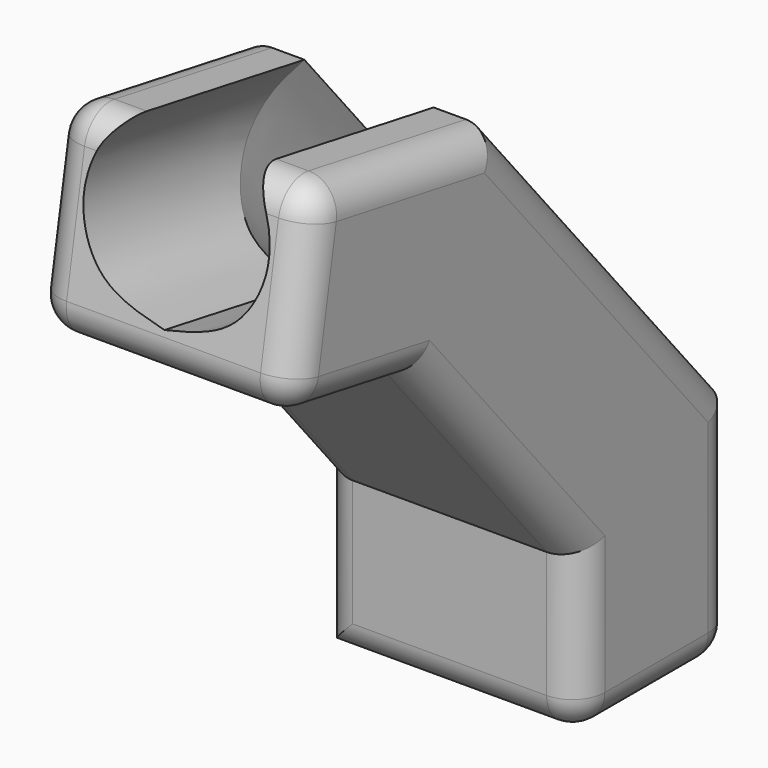
from build123d import *

# Parameters (mm, degrees)
F3_R = 5


with BuildPart() as f2:
    # F2: sweep along a path in F1
    with BuildLine(Plane.YZ) as f2_path:
        Line((0, 0), (0, 30))
        Line((0, 30), (-38.5672565812, 75.9626665871))
        Line((-38.5672565812, 75.9626665871), (-68.5672565812, 81.2524760084))
    # F0 (on Top) → F2 (sweep)
    with BuildSketch(Plane.XY):
        with BuildLine():
            Line((-10, 15), (-20, 15))
            Line((-20, 15), (-20, -15))
            Line((-20, -15), (20, -15))
            Line((20, -15), (20, 15))
            Line((20, 15), (10, 15))
            add(Edge.make_bspline(
                [(10, 15), (11.0915185913, 13.5177812127), (13.4276997431, 10.3453830316), (15.1647077967, 2.8381597184), (10.8372280842, -6.6356174494), (3.701873231, -8.2492537512), (0, -9.0864198282)],
                knots=[0, 0, 0, 0, 0.2084843189, 0.4462197347, 0.7126948299, 1, 1, 1, 1], degree=3))
            add(Edge.make_bspline(
                [(-10, 15), (-11.0915185913, 13.5177812127), (-13.4276997431, 10.3453830316), (-15.1647077967, 2.8381597184), (-10.8372280842, -6.6356174494), (-3.701873231, -8.2492537512), (0, -9.0864198282)],
                knots=[0, 0, 0, 0, 0.2084843189, 0.4462197347, 0.7126948299, 1, 1, 1, 1], degree=3))
        make_face()
    sweep(path=f2_path.line, transition=Transition.RIGHT)

    # F3
    f3_edges = [f2.edges().sort_by_distance(p)[0] for p in [
        (-20, -7.792962, 62.623147),
        (-20, 15, 17.729777),
        (-20, -15, 12.270223),
        (-20, -30.774295, 43.339519),
        (-20, -58.860285, 64.309476),
        (-20, -68.567257, 81.252476),
        (-20, -48.274229, 92.905667),
        (20, -7.792962, 62.623147),
        (20, 15, 17.729777),
        (20, -48.274229, 92.905667),
        (20, 0, 0),
        (20, -15, 12.270223),
        (20, -30.774295, 43.339519),
        (20, -58.860285, 64.309476),
        (20, -68.567257, 81.252476),
        (15, -65.962534, 96.024592),
        (-15, -65.962534, 96.024592),
        (0, -71.171979, 66.48036),
        (0, -15, 0),
        (-15, 15, 0),
        (15, 15, 0),
    ]]
    fillet(f3_edges, radius=F3_R)


solid = f2.part
